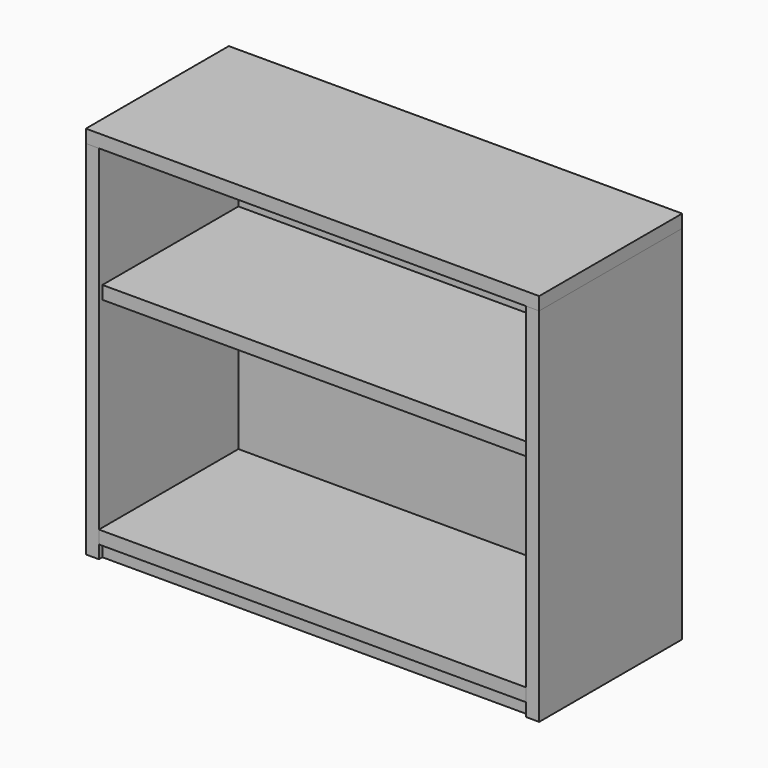
from build123d import *

# Parameters (mm, degrees)
F0_W      = 660.4
F0_H      = 260.35
F1_DEPTH  = 19.05
F2_W      = 19.05
F2_H      = 260.35
F3_DEPTH  = 527.05
F4_W      = 260.35
F4_H      = 19.05
F5_DEPTH  = 622.3
F6_W      = 622.3
F6_H      = 31.75
F7_DEPTH  = 19.05
F8_W      = 641.35
F8_H      = 536.575
F9_DEPTH  = 6.35
F10_W     = 247.65
F10_H     = 19.05
F11_DEPTH = 622.3
F12_W     = 641.35
F12_H     = 190.5
F12_H_2   = 314.325
F13_DEPTH = 6.35


with BuildPart() as f1:
    # F0 (on Top) → F1 (new body)
    with BuildSketch(Plane.XY):
        Rectangle(F0_W, F0_H)
    extrude(amount=-F1_DEPTH)


with BuildPart() as f3:
    # F2 (on face) → F3 (new body)
    with BuildSketch(Plane(origin=(0, 0, -19.05), x_dir=(1, 0, 0), z_dir=(0, 0, -1))):
        with Locations((-320.675, 0)):
            Rectangle(F2_W, F2_H)
        with Locations((320.675, 0)):
            Rectangle(F2_W, F2_H)
    extrude(amount=F3_DEPTH)


with BuildPart() as f5:
    # F4 (on face) → F5 (new body, through all)
    with BuildSketch(Plane.YZ.offset(-311.15)):
        with Locations((0, -517.525)):
            Rectangle(F4_W, F4_H)
    extrude(amount=F5_DEPTH)


with BuildPart() as f7:
    # F6 (on face) → F7 (new body, through all)
    with BuildSketch(Plane(origin=(0, 0, -527.05), x_dir=(1, 0, 0), z_dir=(0, 0, -1))):
        with Locations((0, 107.95)):
            Rectangle(F6_W, F6_H)
    extrude(amount=F7_DEPTH)


with BuildPart() as f9_tool:
    # F8 (on face) → F9 (new body)
    with BuildSketch(Plane(origin=(0, 130.175, 0), x_dir=(-1, 0, 0), z_dir=(0, 1, 0))):
        with Locations((0, -277.8125)):
            Rectangle(F8_W, F8_H)
    extrude(amount=-F9_DEPTH)


with BuildPart() as f1_1:
    add(f1.part)

    # F9: cut by f9_tool
    add(f9_tool.part, mode=Mode.SUBTRACT)


with BuildPart() as f3_1:
    add(f3.part)

    # F9: cut by f9_tool
    add(f9_tool.part, mode=Mode.SUBTRACT)


with BuildPart() as f5_1:
    add(f5.part)

    # F9: cut by f9_tool
    add(f9_tool.part, mode=Mode.SUBTRACT)


with BuildPart() as f11:
    # F10 (on face) → F11 (new body, through all)
    with BuildSketch(Plane.YZ.offset(-311.15)):
        with Locations((0, -206.375)):
            Rectangle(F10_W, F10_H)
    extrude(amount=F11_DEPTH)


with BuildPart() as f13:
    # F12 (on face) → F13 (new body, through all)
    with BuildSketch(Plane(origin=(0, 123.825, 0), x_dir=(-1, 0, 0), z_dir=(0, 1, 0))):
        with Locations((0, -104.775)):
            Rectangle(F12_W, F12_H)
        with Locations((0, -369.8875)):
            Rectangle(F12_W, F12_H_2)
        with Locations((0, -104.775)):
            Rectangle(F12_W, F12_H)
    extrude(amount=F13_DEPTH)


solid = Compound([f7.part, f1_1.part, f3_1.part, f5_1.part, f11.part, f13.part])
